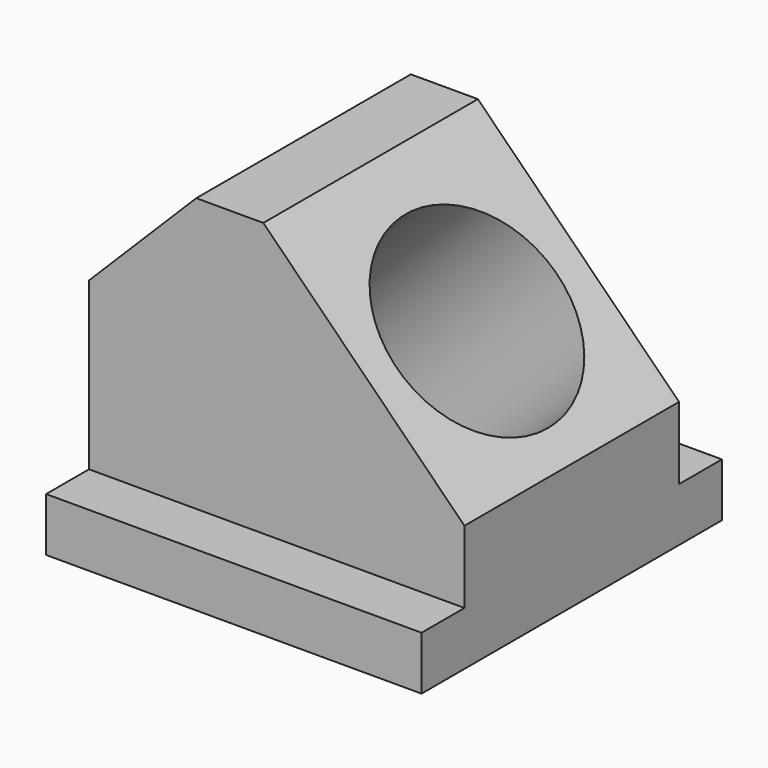
from build123d import *

# Parameters (mm, degrees)
F0_W     = 71.12
F0_H     = 61.976
F1_DEPTH = 35.56
F2_W     = 71.12
F2_H     = 10.16
F3_DEPTH = 51.816
F5_DEPTH = 60.961
F6_R     = 19.05
F7_DEPTH = 67.173316


with BuildPart() as f1:
    # F0 (on Front) → F1 (new body, symmetric)
    with BuildSketch(Plane.XZ):
        with Locations((35.56, 30.988)):
            Rectangle(F0_W, F0_H)
    extrude(amount=F1_DEPTH, both=True)

    # F2 (on face) → F3 (cut)
    with BuildSketch(Plane.XY.offset(61.976)):
        with Locations((35.56, -30.48)):
            Rectangle(F2_W, F2_H)
        with Locations((35.56, 30.48)):
            Rectangle(F2_W, F2_H)
    extrude(amount=-F3_DEPTH, mode=Mode.SUBTRACT)

    # F4 (on face) → F5 (cut, through all)
    with BuildSketch(Plane.XZ.offset(25.4)):
        Polygon((0, 61.976), (0, 41.656), (20.32, 61.976), align=None)
        Polygon((71.12, 61.976), (33.02, 61.976), (71.12, 23.876), align=None)
    extrude(amount=-F5_DEPTH, mode=Mode.SUBTRACT)

    # F6 (on face) → F7 (cut, through all)
    with BuildSketch(Plane(origin=(47.498, 0, 47.498), x_dir=(0.707107, 0, -0.707107), z_dir=(0.707107, 0, 0.707107))):
        with Locations((8.006553, 0)):
            Circle(F6_R)
    extrude(amount=-F7_DEPTH, mode=Mode.SUBTRACT)


solid = f1.part
